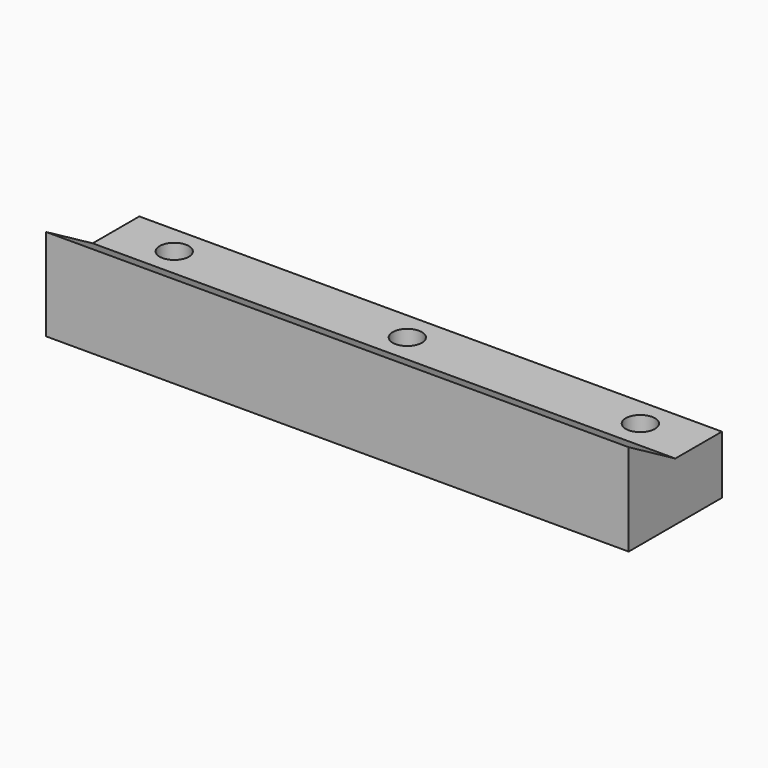
from build123d import *

# Parameters (mm, degrees)
F1_DEPTH = 127
F3_DEPTH = 12.701


with BuildPart() as f1:
    # F0 (on Right) → F1 (new body)
    with BuildSketch(Plane.YZ):
        Polygon((0, 20.032348), (0, 0), (25.4, 0), (25.4, 12.7), (12.7, 12.7), align=None)
    extrude(amount=-F1_DEPTH)

    # F2 (on face) → F3 (cut, through all)
    with BuildSketch(Plane.XY.offset(12.7)):
        with BuildLine():
            ThreePointArc((-111.125, 19.05), (-114.3, 22.225), (-117.475, 19.05))
            Line((-117.475, 19.05), (-111.125, 19.05))
        make_face()
        with BuildLine():
            ThreePointArc((-9.525, 19.05), (-12.7, 22.225), (-15.875, 19.05))
            Line((-15.875, 19.05), (-9.525, 19.05))
        make_face()
        with BuildLine():
            Line((-9.525, 19.05), (-15.875, 19.05))
            ThreePointArc((-15.875, 19.05), (-12.7, 15.875), (-9.525, 19.05))
        make_face()
        with BuildLine():
            ThreePointArc((-60.325, 19.05), (-63.5, 22.225), (-66.675, 19.05))
            Line((-66.675, 19.05), (-60.325, 19.05))
        make_face()
        with BuildLine():
            Line((-60.325, 19.05), (-66.675, 19.05))
            ThreePointArc((-66.675, 19.05), (-63.5, 15.875), (-60.325, 19.05))
        make_face()
        with BuildLine():
            Line((-111.125, 19.05), (-117.475, 19.05))
            ThreePointArc((-117.475, 19.05), (-114.3, 15.875), (-111.125, 19.05))
        make_face()
    extrude(amount=-F3_DEPTH, mode=Mode.SUBTRACT)


solid = f1.part
